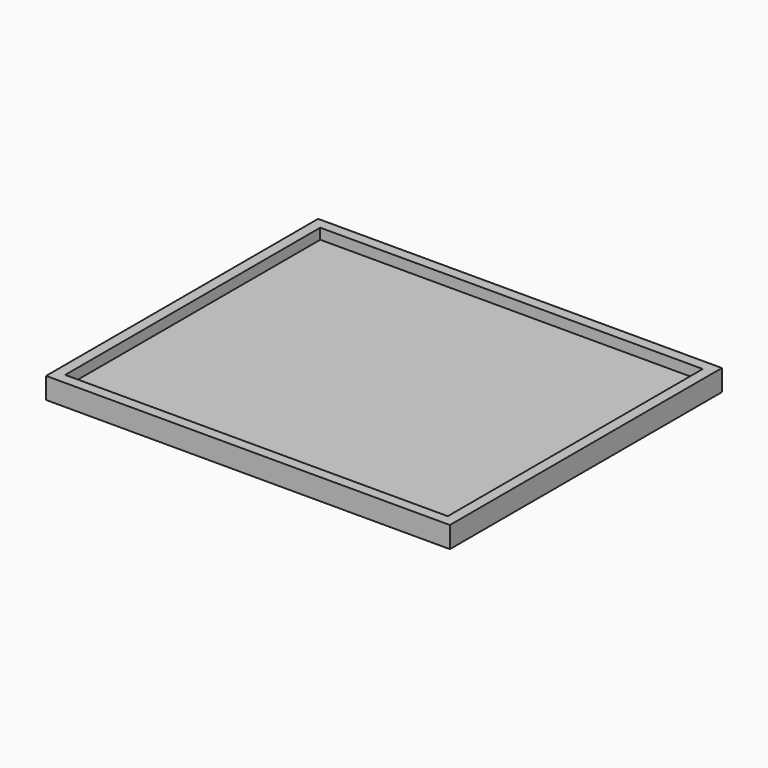
from build123d import *

# Parameters (mm, degrees)
F0_W     = 96.52
F0_H     = 5.08
F1_DEPTH = 40.64
F2_T     = -2.54


with BuildPart() as f1:
    # F0 (on Front) → F1 (new body, symmetric)
    with BuildSketch(Plane.XZ):
        Rectangle(F0_W, F0_H)
    extrude(amount=F1_DEPTH, both=True)

    # F2
    f2_openings = [f1.faces().sort_by_distance(p)[0] for p in [
        (0, 0, 2.54),
    ]]
    offset(amount=F2_T, openings=f2_openings)


solid = f1.part
